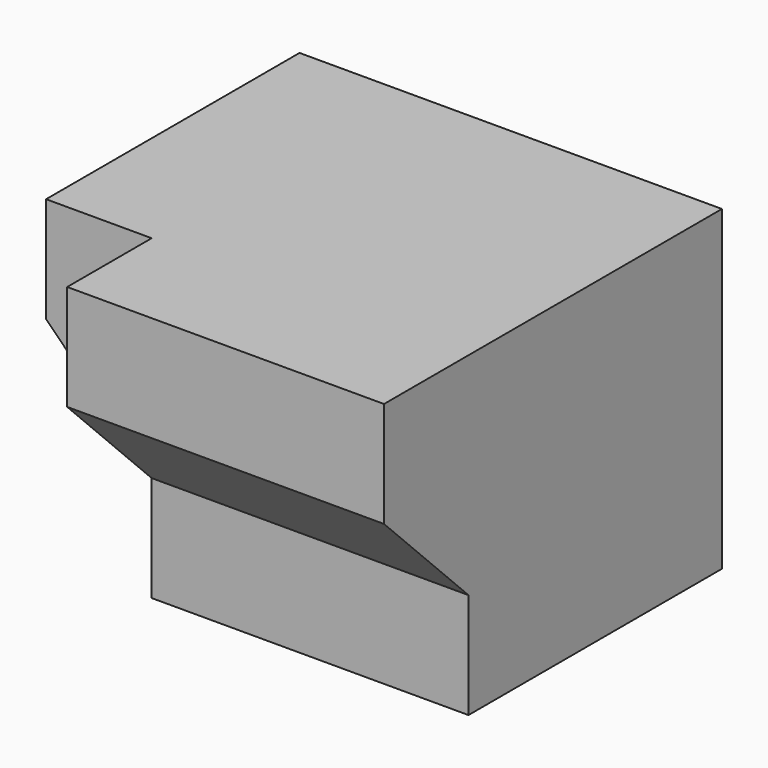
from build123d import *

# Parameters (mm, degrees)
BOX002_W        = 30
BOX002_H        = 11
BOX002_DEPTH    = 20
CHAMFER_SIZE    = 10
BOX_W           = 30
BOX_H           = 30
BOX_DEPTH       = 30
BOX001_W        = 11
BOX001_H        = 30
BOX001_DEPTH    = 20
CHAMFER001_SIZE = 10


with BuildPart() as chamfer_body:
    # Box002 → Box002 (new body)
    with BuildSketch(Plane(origin=(-15, -25, 10), x_dir=(1, 0, 0), z_dir=(0, 0, 1))):
        with Locations((15, 5.5)):
            Rectangle(BOX002_W, BOX002_H)
    extrude(amount=BOX002_DEPTH)

    # Chamfer
    chamfer_edges = [chamfer_body.edges().sort_by_distance(p)[0] for p in [
        (0, -25, 10),
    ]]
    chamfer(chamfer_edges, length=CHAMFER_SIZE)


with BuildPart() as cube:
    # Box → Box (new body)
    with BuildSketch(Plane(origin=(-15, -15, 0), x_dir=(1, 0, 0), z_dir=(0, 0, 1))):
        with Locations((15, 15)):
            Rectangle(BOX_W, BOX_H)
    extrude(amount=BOX_DEPTH)


with BuildPart() as fusion:
    # Box001 → Box001 (new body)
    with BuildSketch(Plane(origin=(-25, -15, 10), x_dir=(1, 0, 0), z_dir=(0, 0, 1))):
        with Locations((5.5, 15)):
            Rectangle(BOX001_W, BOX001_H)
    extrude(amount=BOX001_DEPTH)

    # Chamfer001
    chamfer001_edges = [fusion.edges().sort_by_distance(p)[0] for p in [
        (-25, 0, 10),
    ]]
    chamfer(chamfer001_edges, length=CHAMFER001_SIZE)

    # Fusion: union Chamfer body, Cube
    add(chamfer_body.part)
    add(cube.part)


solid = fusion.part
